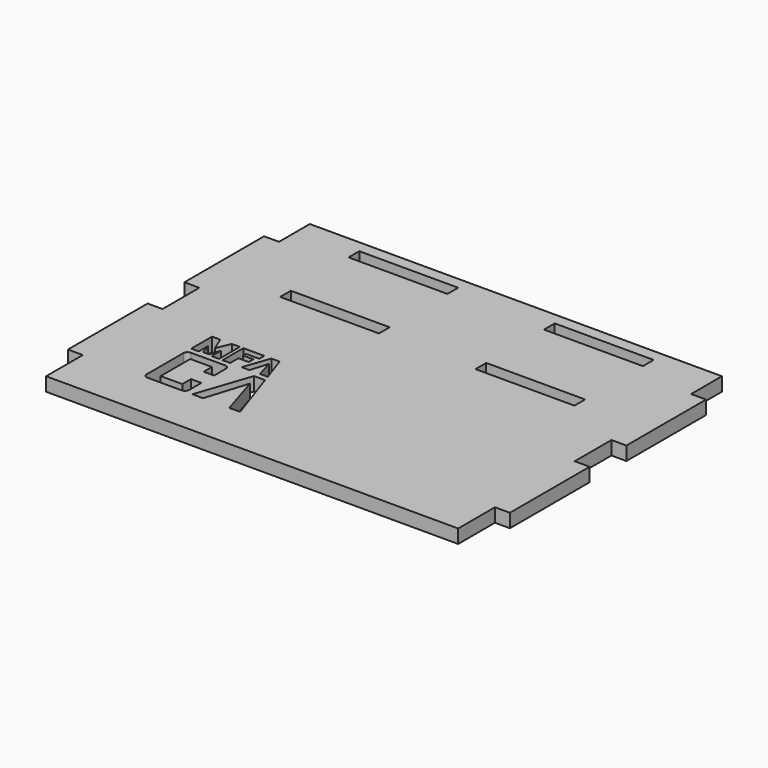
from build123d import *

# Parameters (mm, degrees)
F0_W     = 42
F0_H     = 5.7
F1_DEPTH = 5.8


with BuildPart() as f1:
    # F0 (on Top) → F1 (new body)
    with BuildSketch(Plane.XY):
        Polygon((87.5, 53.65), (87.5, 70), (-87.5, 70), (-87.5, 53.65), (-93.85, 53.65), (-93.85, 11.35), (-87.5, 11.35), (-87.5, -8.175), (-93.85, -8.175), (-93.85, -50.475), (-87.5, -50.475), (-87.5, -70), (87.5, -70), (87.5, -50.475), (93.85, -50.475), (93.85, -8.175), (87.5, -8.175), (87.5, 11.35), (93.85, 11.35), (93.85, 53.65), align=None)
        with BuildLine():
            ThreePointArc((-44.294584, -48.020755), (-44.821792, -49.293547), (-46.094584, -49.820755))
            Line((-46.094584, -49.820755), (-60.533295, -49.820757))
            ThreePointArc((-60.533295, -49.820757), (-61.806087, -49.293549), (-62.333295, -48.020757))
            Line((-62.333295, -48.020757), (-62.333295, -28.613132))
            ThreePointArc((-62.333295, -28.613132), (-61.806087, -27.34034), (-60.533295, -26.813132))
            Line((-60.533295, -26.813132), (-46.094584, -26.813134))
            ThreePointArc((-46.094584, -26.813134), (-44.821792, -27.340342), (-44.294584, -28.613134))
            Line((-44.294584, -28.613134), (-44.294584, -34.793572))
            Line((-44.294584, -34.793572), (-48.72147, -34.793572))
            Line((-48.72147, -34.793572), (-48.72147, -30.456954))
            Line((-48.72147, -30.456954), (-57.906409, -30.456954))
            Line((-57.906409, -30.456954), (-57.906409, -46.176934))
            Line((-57.906409, -46.176934), (-48.72147, -46.176934))
            Line((-48.72147, -46.176934), (-48.72147, -41.569373))
            Line((-48.72147, -41.569373), (-44.294584, -41.569373))
            Line((-44.294584, -41.569373), (-44.294584, -48.020755))
        make_face(mode=Mode.SUBTRACT)
        Polygon((-37.007503, -49.820755), (-41.524656, -49.76053), (-33.755004, -26.813132), (-29.057175, -26.813132), (-21.287593, -49.76053), (-25.834929, -49.820755), (-31.436272, -31.842268), align=None, mode=Mode.SUBTRACT)
        Polygon((-59.096379, -24.434737), (-62.305008, -24.434737), (-62.305008, -13.392651), (-58.836246, -13.392651), (-56.350317, -19.318423), (-53.936685, -13.392651), (-50.496843, -13.392651), (-50.496843, -24.434737), (-53.662093, -24.434737), (-53.662093, -19.506257), (-55.064043, -23.957851), (-57.694499, -23.957851), (-59.096379, -19.506257), align=None, mode=Mode.SUBTRACT)
        Polygon((-45.771218, -20.069901), (-45.771218, -24.434737), (-49.037616, -24.434737), (-49.037616, -13.392651), (-40.134498, -13.392651), (-40.134498, -16.051955), (-45.771218, -16.051955), (-45.771218, -17.555053), (-41.406382, -17.555053), (-41.406382, -20.069901), align=None, mode=Mode.SUBTRACT)
        Polygon((-37.605611, -24.434737), (-40.929777, -24.405818), (-37.114195, -13.392651), (-33.631044, -13.392651), (-29.815392, -24.405818), (-33.168477, -24.434737), (-35.379814, -16.919111), align=None, mode=Mode.SUBTRACT)
        with Locations((-41.5, 25.8)):
            Rectangle(F0_W, F0_H, mode=Mode.SUBTRACT)
        with Locations((-41.5, 62.15)):
            Rectangle(F0_W, F0_H, mode=Mode.SUBTRACT)
        with Locations((41.5, 25.8)):
            Rectangle(F0_W, F0_H, mode=Mode.SUBTRACT)
        with Locations((41.5, 62.15)):
            Rectangle(F0_W, F0_H, mode=Mode.SUBTRACT)
    extrude(amount=F1_DEPTH)


solid = f1.part
